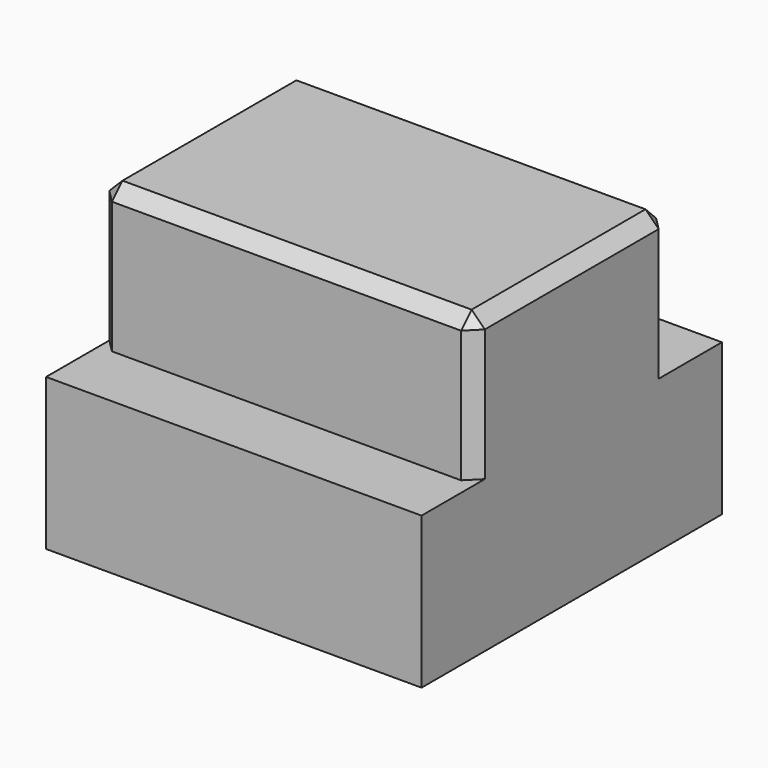
from build123d import *

# Parameters (mm, degrees)
BOX029_W        = 5.7
BOX029_H        = 5.7
BOX029_DEPTH    = 2.3
BOX028_W        = 5.7
BOX028_H        = 3.7
BOX028_DEPTH    = 4.5
CHAMFER012_SIZE = 0.2


with BuildPart() as cube029:
    # Box029 → Box029 (new body)
    with BuildSketch(Plane(origin=(0, -1, 0), x_dir=(1, 0, 0), z_dir=(0, 0, 1))):
        with Locations((2.85, 2.85)):
            Rectangle(BOX029_W, BOX029_H)
    extrude(amount=BOX029_DEPTH)


with BuildPart() as obj1:
    # Box028 → Box028 (new body)
    with BuildSketch(Plane.XY):
        with Locations((2.85, 1.85)):
            Rectangle(BOX028_W, BOX028_H)
    extrude(amount=BOX028_DEPTH)

    # Chamfer012
    chamfer012_edges = [obj1.edges().sort_by_distance(p)[0] for p in [
        (0, 0, 2.25),
        (0, 1.85, 4.5),
        (5.7, 0, 2.25),
        (5.7, 1.85, 4.5),
        (5.7, 3.7, 2.25),
        (2.85, 0, 4.5),
        (2.85, 3.7, 4.5),
    ]]
    chamfer(chamfer012_edges, length=CHAMFER012_SIZE)

    # Fusion003007006013: union Cube029
    add(cube029.part)


with BuildPart() as obj1_1:
    # Fusion003007006013 placement: moved
    add(obj1.part.moved(Location((-26, 10.25, 8.75))))


solid = obj1_1.part
